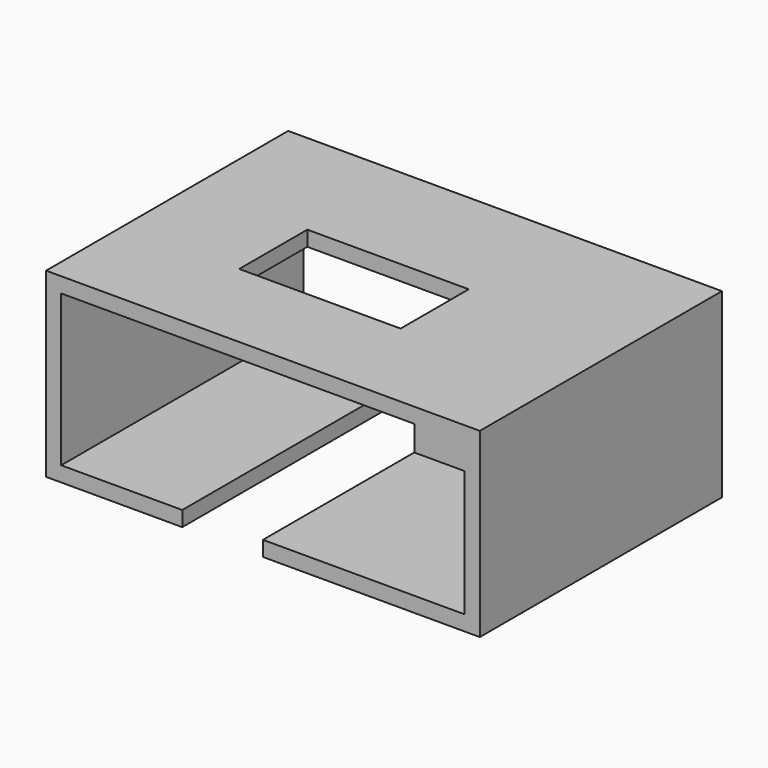
from build123d import *

# Parameters (mm, degrees)
F1_DEPTH = 300
F2_W     = 160
F2_H     = 84.39811
F3_DEPTH = 25
F4_W     = 80
F4_H     = 50
F5_DEPTH = 30


with BuildPart() as f1:
    # F0 (on Front) → F1 (new body)
    with BuildSketch(Plane.XZ):
        Polygon((-80, -15), (-80, 0), (-200, 0), (-200, 150), (150, 150), (150, 125), (200, 125), (200, 0), (0, 0), (0, -15), (215, -15), (215, 165), (-215, 165), (-215, -15), align=None)
    extrude(amount=F1_DEPTH)

    # F2 (on face) → F3 (cut)
    with BuildSketch(Plane.XY.offset(165)):
        with Locations((-20, -162.199055)):
            Rectangle(F2_W, F2_H)
    extrude(amount=-F3_DEPTH, mode=Mode.SUBTRACT)

    # F4 (on face) → F5 (join)
    with BuildSketch(Plane(origin=(200, 0, 0), x_dir=(0, -1, 0), z_dir=(-1, 0, 0))):
        with Locations((185, 94.528437)):
            Rectangle(F4_W, F4_H)
    extrude(amount=F5_DEPTH)


solid = f1.part
